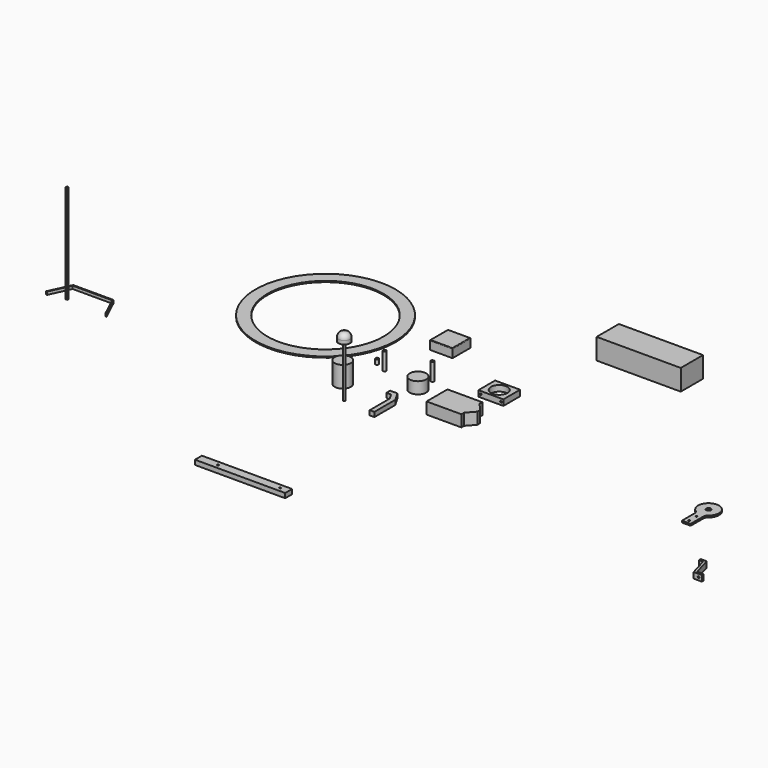
from build123d import *

# Parameters (mm, degrees)
F0_R      = 2.75
F0_R_2    = 1.5
F1_DEPTH  = 8
F2_R      = 2.75
F2_R_2    = 1.5
F3_DEPTH  = 30
F4_R      = 14.25
F5_DEPTH  = 20
F7_DEPTH  = 8
F8_R      = 14
F9_DEPTH  = 36
F11_DEPTH = 20
F12_W     = 43
F12_H     = 36
F12_R     = 14.25
F13_DEPTH = 10
F14_W     = 145
F14_H     = 48
F15_DEPTH = 36
F16_R     = 120.5
F16_R_2   = 100
F17_DEPTH = 2
F18_W     = 155.5
F18_H     = 15
F18_R     = 1.5
F19_DEPTH = 8
F20_R     = 2.75
F20_R_2   = 1.5
F21_DEPTH = 30
F22_W     = 39
F22_H     = 39
F23_DEPTH = 15
F24_R     = 1
F25_W     = 3
F25_H     = 3
F26_DEPTH = 170
F28_DEPTH = 5
F29_R     = 2
F30_DEPTH = 90
F31_R     = 10
F32_DEPTH = 15
F33_R     = 9
F35_DEPTH = 10
F36_R     = 1.5
F37_DEPTH = 40
F38_R     = 4
F38_R_2   = 1.5
F39_DEPTH = 3
F40_R     = 1.5
F41_DEPTH = 45


with BuildPart() as f1:
    # F0 (on Top) → F1 (new body)
    with BuildSketch(Plane.XY):
        with Locations((-57.728097, 51.258039)):
            Circle(F0_R)
        with Locations((-57.728097, 51.258039)):
            Circle(F0_R_2, mode=Mode.SUBTRACT)
    extrude(amount=F1_DEPTH)


with BuildPart() as f3:
    # F2 (on Top) → F3 (new body)
    with BuildSketch(Plane.XY):
        with Locations((-37.929229, 42.724673)):
            Circle(F2_R)
        with Locations((-37.929229, 42.724673)):
            Circle(F2_R_2, mode=Mode.SUBTRACT)
    extrude(amount=F3_DEPTH)


with BuildPart() as f5:
    # F4 (on Top) → F5 (new body)
    with BuildSketch(Plane.XY):
        with Locations((31.738039, 27.175693)):
            Circle(F4_R)
    extrude(amount=F5_DEPTH)


with BuildPart() as f7:
    # F6 (on Top) → F7 (new body)
    with BuildSketch(Plane.XY):
        Polygon((26.732854, -10.68175), (14.114051, -10.68175), (14.114051, -18.68175), (22.114051, -18.68175), (28.232854, -29.279826), (28.232854, -72.136233), (36.232854, -72.136233), (36.232854, -27.136233), align=None)
    extrude(amount=F7_DEPTH)


with BuildPart() as f9:
    # F8 (on Top) → F9 (new body)
    with BuildSketch(Plane.XY):
        with Locations((-57.525191, -23.010077)):
            Circle(F8_R)
    extrude(amount=F9_DEPTH)


with BuildPart() as f11:
    # F10 (on Top) → F11 (new body)
    with BuildSketch(Plane.XY):
        Polygon((86.468547, 0), (158.468547, 0), (158.468547, 3), (146.468547, 16.5), (146.468547, 22.5), (86.468547, 22.5), align=None)
        Polygon((158.468547, -3), (158.468547, 0), (86.468547, 0), (86.468547, -22.5), (146.468547, -22.5), (146.468547, -16.5), align=None)
    extrude(amount=F11_DEPTH)


with BuildPart() as f13:
    # F12 (on Top) → F13 (new body)
    with BuildSketch(Plane.XY):
        with Locations((129.88414, 79.741821)):
            Rectangle(F12_W, F12_H)
        with Locations((129.88414, 79.741821)):
            Circle(F12_R, mode=Mode.SUBTRACT)
    extrude(amount=F13_DEPTH)

    # F40 (on face) → F41 (cut)
    with BuildSketch(Plane(origin=(0, 97.741821, 0), x_dir=(-1, 0, 0), z_dir=(0, 1, 0))):
        with Locations((-112.38414, 5.041781)):
            Circle(F40_R)
        with Locations((-147.38414, 5.041781)):
            Circle(F40_R)
    extrude(amount=-F41_DEPTH, mode=Mode.SUBTRACT)


with BuildPart() as f15:
    # F14 (on Top) → F15 (new body)
    with BuildSketch(Plane.XY):
        with Locations((239.270706, 267.359271)):
            Rectangle(F14_W, F14_H)
    extrude(amount=F15_DEPTH)


with BuildPart() as f17:
    # F16 (on Top) → F17 (new body)
    with BuildSketch(Plane.XY):
        with Locations((-198.382765, 115.882061)):
            Circle(F16_R)
        with Locations((-198.382765, 115.882061)):
            Circle(F16_R_2, mode=Mode.SUBTRACT)
    extrude(amount=F17_DEPTH)


with BuildPart() as f19:
    # F18 (on Top) → F19 (new body)
    with BuildSketch(Plane.XY):
        with Locations((12.47219, -324.262362)):
            Rectangle(F18_W, F18_H)
        with Locations((-31.27781, -324.262362)):
            Circle(F18_R, mode=Mode.SUBTRACT)
        with Locations((75.52219, -324.262362)):
            Circle(F18_R, mode=Mode.SUBTRACT)
    extrude(amount=F19_DEPTH)


with BuildPart() as f21:
    # F20 (on Top) → F21 (new body)
    with BuildSketch(Plane.XY):
        with Locations((31.271905, 59.045184)):
            Circle(F20_R)
        with Locations((31.271905, 59.045184)):
            Circle(F20_R_2, mode=Mode.SUBTRACT)
    extrude(amount=F21_DEPTH)


with BuildPart() as f23:
    # F22 (on Top) → F23 (new body)
    with BuildSketch(Plane.XY):
        with Locations((-8.439151, 147.090567)):
            Rectangle(F22_W, F22_H)
    extrude(amount=F23_DEPTH)

    # F24
    f24_edges = [f23.edges().sort_by_distance(p)[0] for p in [
        (-8.439151, 166.590567, 15),
        (-27.939151, 147.090567, 15),
        (-8.439151, 127.590567, 15),
        (11.060849, 147.090567, 15),
    ]]
    fillet(f24_edges, radius=F24_R)


with BuildPart() as f26:
    # F25 (on Top) → F26 (new body)
    with BuildSketch(Plane.XY):
        with Locations((-501.382485, -61.941863)):
            Rectangle(F25_W, F25_H)
    extrude(amount=F26_DEPTH)


with BuildPart() as f28:
    # F27 (on Top) → F28 (new body)
    with BuildSketch(Plane.XY):
        Polygon((-514.708101, -32.23855), (-531.808236, -69.23855), (-530.155785, -69.23855), (-513.979982, -34.23855), (-445.853412, -34.23855), (-429.464538, -69.23855), (-427.808236, -69.23855), (-445.133617, -32.23855), align=None)
    extrude(amount=F28_DEPTH)


with BuildPart() as f30:
    # F29 (on Top) → F30 (new body)
    with BuildSketch(Plane.XY):
        with Locations((-25.779406, -59.530664)):
            Circle(F29_R)
    extrude(amount=F30_DEPTH)

    # F31 (on face) → F32 (join)
    with BuildSketch(Plane.XY.offset(90)):
        with Locations((-25.779406, -59.530664)):
            Circle(F31_R)
    extrude(amount=F32_DEPTH)

    # F33
    f33_edges = [f30.edges().sort_by_distance(p)[0] for p in [
        (-35.779406, -59.530664, 105),
    ]]
    fillet(f33_edges, radius=F33_R)


with BuildPart() as f35:
    # F34 (on Top) → F35 (new body)
    with BuildSketch(Plane.XY):
        Polygon((665.599586, -171.262521), (679.698709, -171.262521), (679.698709, -167.262521), (668.198709, -167.262521), (668.198709, -165.762521), (659.698709, -135.762521), (649.698709, -135.762521), (649.698709, -139.762521), (656.674586, -139.762521), align=None)
    extrude(amount=F35_DEPTH)

    # F36 (on face) → F37 (cut)
    with BuildSketch(Plane(origin=(0, -135.762521, 0), x_dir=(-1, 0, 0), z_dir=(0, 1, 0))):
        with Locations((-654.198709, 5)):
            Circle(F36_R)
        with Locations((-674.198709, 5)):
            Circle(F36_R)
    extrude(amount=-F37_DEPTH, mode=Mode.SUBTRACT)


with BuildPart() as f39:
    # F38 (on Top) → F39 (new body)
    with BuildSketch(Plane.XY):
        with BuildLine():
            Line((558.85695, -23.588644), (566.35695, -23.588644))
            Line((566.35695, -23.588644), (566.35695, -26.210235))
            ThreePointArc((566.35695, -26.210235), (567.173453, -22.807166), (569.445184, -20.145062))
            ThreePointArc((569.445184, -20.145062), (564.424017, -22.706114), (558.85695, -23.588644))
        make_face()
        with BuildLine():
            Line((551.35695, -23.588644), (558.85695, -23.588644))
            ThreePointArc((558.85695, -23.588644), (553.289882, -22.706114), (548.268715, -20.145061))
            ThreePointArc((548.268715, -20.145061), (550.540446, -22.807166), (551.35695, -26.210235))
            Line((551.35695, -26.210235), (551.35695, -23.588644))
        make_face()
        with BuildLine():
            ThreePointArc((548.268715, -20.145061), (553.289882, -22.706114), (558.85695, -23.588644))
            ThreePointArc((558.85695, -23.588644), (564.424017, -22.706114), (569.445184, -20.145062))
            ThreePointArc((569.445184, -20.145062), (574.89734, -13.756012), (576.85695, -5.588644))
            ThreePointArc((576.85695, -5.588644), (550.689583, 10.451746), (548.268715, -20.145061))
        make_face()
        with Locations((558.85695, -5.588644)):
            Circle(F38_R, mode=Mode.SUBTRACT)
        Polygon((566.35695, -26.210235), (566.35695, -23.588644), (558.85695, -23.588644), (551.35695, -23.588644), (551.35695, -26.210235), (551.35695, -53.588644), (566.35695, -53.588644), align=None)
        with Locations((558.85695, -47.588644)):
            Circle(F38_R_2, mode=Mode.SUBTRACT)
        with Locations((558.85695, -31.588644)):
            Circle(F38_R_2, mode=Mode.SUBTRACT)
    extrude(amount=F39_DEPTH)


solid = Compound([f1.part, f3.part, f5.part, f7.part, f9.part, f11.part, f13.part, f15.part, f17.part, f19.part, f21.part, f23.part, f26.part, f28.part, f30.part, f35.part, f39.part])
